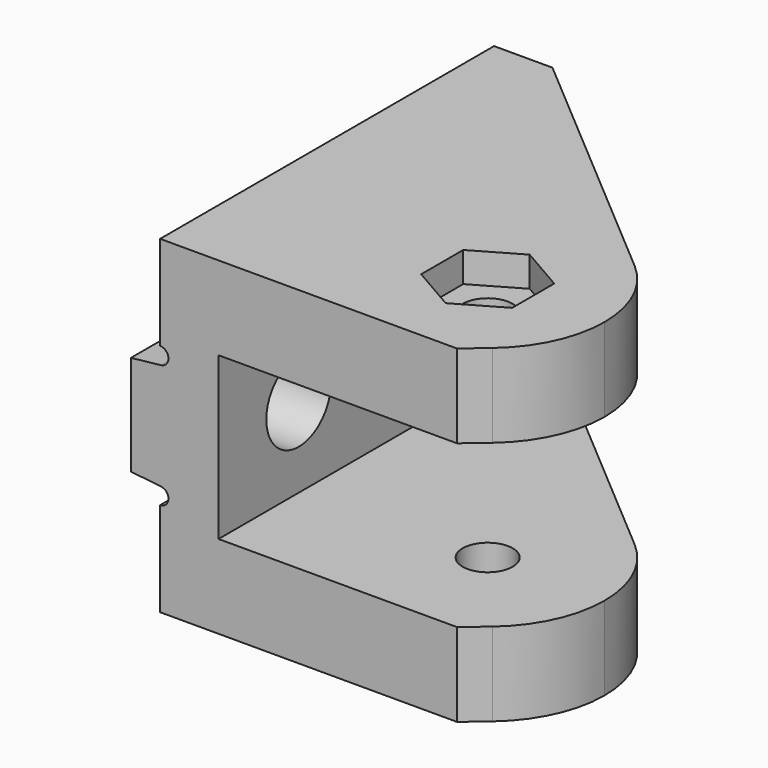
from build123d import *

# Parameters (mm, degrees)
F0_W          = 18
F0_H          = 5
F1_DEPTH      = 25
F2_R          = 1.5
F3_DEPTH      = 14.691
F3_DEPTH_BACK = 25
F0_W_2        = 8
F0_H_2        = 0.52
F5_DEPTH      = 25
F6_R          = 2.425
F7_DEPTH      = 25
F8_R          = 1.5
F9_DEPTH      = 1.8


with BuildPart() as f1:
    # F0 (on Front) → F1 (new body)
    with BuildSketch(Plane.XZ):
        with BuildLine():
            Line((2, -9.845), (5.5, -9.845))
            Line((5.5, -9.845), (5.5, -4.845))
            Line((5.5, -4.845), (5.5, 4.845))
            Line((5.5, 4.845), (5.5, 9.845))
            Line((5.5, 9.845), (2, 9.845))
            Line((2, 9.845), (2, 4.196959))
            ThreePointArc((2, 4.196959), (2.499239, 3.724532), (2.055063, 3.2))
            Line((2.055063, 3.2), (0.25, 3))
            Line((0.25, 3), (0.25, -3))
            Line((0.25, -3), (2.055063, -3.2))
            ThreePointArc((2.055063, -3.2), (2.499239, -3.724532), (2, -4.196959))
            Line((2, -4.196959), (2, -9.845))
        make_face()
        with Locations((14.5, -7.345)):
            Rectangle(F0_W, F0_H)
        with Locations((14.5, 7.345)):
            Rectangle(F0_W, F0_H)
    extrude(amount=F1_DEPTH)

    # F2 (on face) → F3 (cut, two sides)
    with BuildSketch(Plane(origin=(0, 0, 4.845), x_dir=(1, 0, 0), z_dir=(0, 0, -1))) as f3_sk:
        with BuildLine():
            Line((23.5, 25), (19.784899, 25))
            Line((19.784899, 25), (21.046038, 23.922926))
            ThreePointArc((21.046038, 23.922926), (22.856975, 21.530677), (23.5, 18.6))
            Line((23.5, 18.6), (23.5, 25))
        make_face()
        with BuildLine():
            Line((23.5, 0), (23.5, 18.6))
            ThreePointArc((23.5, 18.6), (22.856975, 15.669323), (21.046038, 13.277074))
            Line((21.046038, 13.277074), (5.5, 0))
            Line((5.5, 0), (23.5, 0))
        make_face()
        with Locations((16.5, 18.6)):
            Circle(F2_R)
    extrude(amount=F3_DEPTH, mode=Mode.SUBTRACT)
    extrude(f3_sk.sketch, amount=-F3_DEPTH_BACK, mode=Mode.SUBTRACT)

    # F0 (on Front) → F5 (cut)
    with BuildSketch(Plane.XZ):
        Polygon((10.765, 4.225), (10.765, -4.225), (12.5, -4.225), (20.5, -4.225), (22.235, -4.225), (22.235, 4.225), (20.5, 4.225), (12.5, 4.225), align=None)
        with Locations((16.5, 4.485)):
            Rectangle(F0_W_2, F0_H_2)
        with Locations((16.5, -4.485)):
            Rectangle(F0_W_2, F0_H_2)
    extrude(amount=F5_DEPTH, mode=Mode.SUBTRACT)

    # F6 (on face) → F7 (cut)
    with BuildSketch(Plane.YZ.offset(5.5)):
        with Locations((-6, 0)):
            Circle(F6_R)
        with Locations((-19, 0)):
            Circle(F6_R)
    extrude(amount=-F7_DEPTH, mode=Mode.SUBTRACT)

    # F8 (on face) → F9 (cut)
    with BuildSketch(Plane.XY.offset(9.845)):
        Polygon((19.225, -20.173279), (19.225, -17.026721), (16.5, -15.453441), (13.775, -17.026721), (13.775, -20.173279), (16.5, -21.746559), align=None)
        with Locations((16.5, -18.6)):
            Circle(F8_R, mode=Mode.SUBTRACT)
    extrude(amount=-F9_DEPTH, mode=Mode.SUBTRACT)


solid = f1.part
